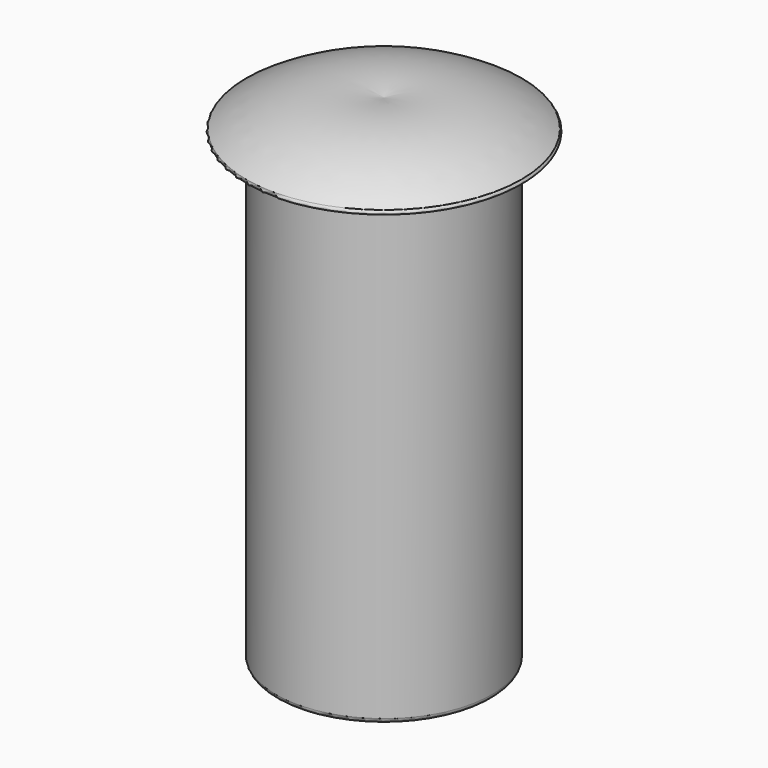
from build123d import *

# Parameters (mm, degrees)
F3_DEPTH = 1.27


with BuildPart() as f1:
    # F0 (on Front) → F1 (revolve)
    with BuildSketch(Plane.XZ):
        with BuildLine():
            Line((-29.7288728788, -2.6899014827), (-31.4433728788, -2.6899014827))
            Line((-31.4433728788, -2.6899014827), (-31.4433728788, -9.9797014827))
            ThreePointArc((-31.4433728788, -9.9797014827), (-31.4210544155, -10.0335830194), (-31.3671728788, -10.0559014827))
            Line((-31.3671728788, -10.0559014827), (-29.7288728788, -10.0559014827))
            Line((-29.7288728788, -10.0559014827), (-29.7288728788, -2.6899014827))
        make_face()
        with BuildLine():
            Line((-31.8916002935, -2.6899014827), (-31.4433728788, -2.6899014827))
            Line((-31.4433728788, -2.6899014827), (-29.7288728788, -2.6899014827))
            Line((-29.7288728788, -2.6899014827), (-29.7288728788, -2.1819014827))
            ThreePointArc((-29.7288728788, -2.1819014827), (-30.8643947668, -2.1835114985), (-31.9131958677, -2.6187456893))
            ThreePointArc((-31.9131958677, -2.6187456893), (-31.9287806504, -2.6623306184), (-31.8916002935, -2.6899014827))
        make_face()
    revolve(axis=Axis((-29.7288728788, 0, -6.3729014827), (0, 0, -1)))

    # F2 (on face) → F3 (cut)
    with BuildSketch(Plane(origin=(0, 0, -10.0559014827), x_dir=(1, 0, 0), z_dir=(0, 0, -1))):
        with BuildLine():
            Line((-29.8041598391, -1.6365692053), (-29.4277211137, 1.6103833408))
            ThreePointArc((-29.4277211137, 1.6103833408), (-29.5401986798, 1.6273994398), (-29.6535859185, 1.6365692053))
            Line((-29.6535859185, 1.6365692053), (-30.0300246439, -1.6103833408))
            ThreePointArc((-30.0300246439, -1.6103833408), (-29.9175470778, -1.6273994398), (-29.8041598391, -1.6365692053))
        make_face()
    extrude(amount=-F3_DEPTH, mode=Mode.SUBTRACT)


solid = f1.part
